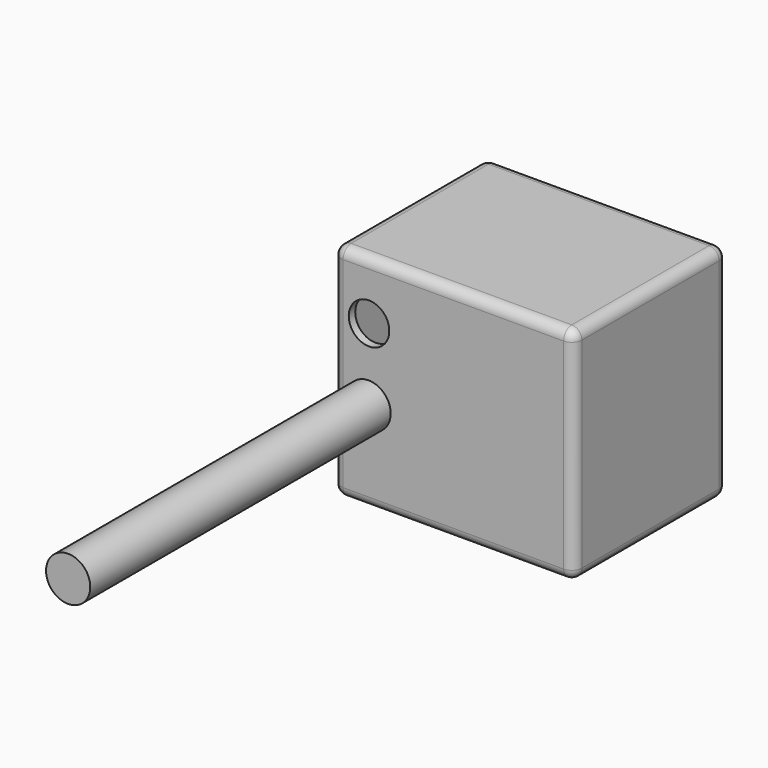
from build123d import *

# Parameters (mm, degrees)
F0_W     = 120.674577
F0_H     = 96.105173
F1_DEPTH = 110.744
F2_T     = -2.54
F3_W     = 115.594577
F3_H     = 105.664
F4_DEPTH = 4.064
F6_D     = 20.32
F6_DEPTH = 5.08
F7_R     = 11.07788
F8_DEPTH = 188.214
F9_R     = 5.08


with BuildPart() as f1:
    # F0 (on Top) → F1 (new body)
    with BuildSketch(Plane.XY):
        with Locations((-2.504403, 2.655324)):
            Rectangle(F0_W, F0_H)
    extrude(amount=F1_DEPTH)

    # F2
    f2_openings = [f1.faces().sort_by_distance(p)[0] for p in [
        (-2.504403, -45.397263, 55.372),
    ]]
    offset(amount=F2_T, openings=f2_openings)

    # F3 (on face) → F4 (join)
    with BuildSketch(Plane.XZ.offset(45.397263)):
        with Locations((-2.504403, 55.372)):
            Rectangle(F3_W, F3_H)
    extrude(amount=-F4_DEPTH)

    # F6
    with Locations(Plane.XZ.offset(45.397263)):
        with Locations((-44.790465, 81.706673)):
            Hole(F6_D / 2, depth=F6_DEPTH)

    # F7 (on face) → F8 (join)
    with BuildSketch(Plane.XZ.offset(45.397263)):
        with Locations((-44.997666, 45.472905)):
            Circle(F7_R)
    extrude(amount=F8_DEPTH)

    # F9
    f9_edges = [f1.edges().sort_by_distance(p)[0] for p in [
        (-2.504403, -45.397263, 110.744),
        (57.832886, -45.397263, 55.372),
        (57.832886, 50.70791, 55.372),
        (57.832886, 2.655324, 110.744),
        (-2.504403, 50.70791, 110.744),
        (-62.841691, 2.655324, 110.744),
        (-62.841691, -45.397263, 55.372),
        (-2.504403, -45.397263, 0),
        (57.832886, 2.655324, 0),
        (-2.504403, 50.70791, 0),
        (-62.841691, 2.655324, 0),
        (-62.841691, 50.70791, 55.372),
    ]]
    fillet(f9_edges, radius=F9_R)


solid = f1.part
